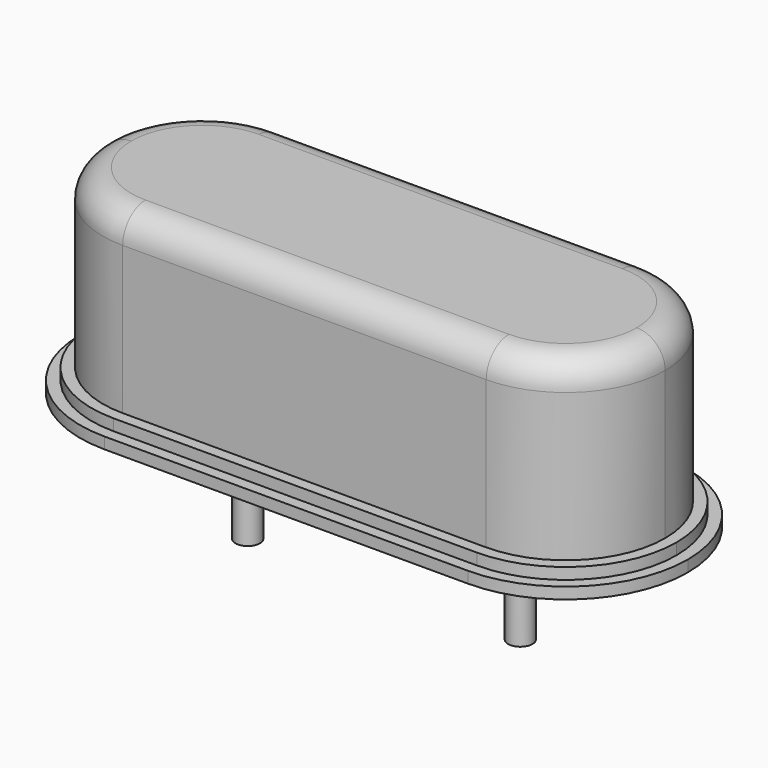
from build123d import *

# Parameters (mm, degrees)
F1_DEPTH  = 0.2
F3_DEPTH  = 0.2
F5_DEPTH  = 3.1
F8_R      = 0.5
F9_R      = 0.215
F10_DEPTH = 2


with BuildPart() as f1:
    # F0 (on Top) → F1 (new body)
    with BuildSketch(Plane.XY):
        with BuildLine():
            Line((0, 2.15), (0, 0))
            Line((0, 0), (5.35, 0))
            ThreePointArc((5.35, 0), (4.72028, 1.52028), (3.2, 2.15))
            Line((3.2, 2.15), (0, 2.15))
        make_face()
    extrude(amount=F1_DEPTH)

    # F2 (on face) → F3 (join)
    with BuildSketch(Plane.XY.offset(0.2)):
        with BuildLine():
            Line((0, 0), (5.15, 0))
            ThreePointArc((5.15, 0), (4.578858, 1.378858), (3.2, 1.95))
            Line((3.2, 1.95), (0, 1.95))
            Line((0, 1.95), (0, 0))
        make_face()
    extrude(amount=F3_DEPTH)

    # F4 (on face) → F5 (join)
    with BuildSketch(Plane.XY.offset(0.4)):
        with BuildLine():
            Line((0, 0), (4.95, 0))
            ThreePointArc((4.95, 0), (4.437437, 1.237437), (3.2, 1.75))
            Line((3.2, 1.75), (0, 1.75))
            Line((0, 1.75), (0, 0))
        make_face()
    extrude(amount=F5_DEPTH)

    # F6: F1 across face


with BuildPart() as f1_1:
    add(f1.part)
    add(f1.part.mirror(Plane(origin=(0, 0.895016, 1.719576), x_dir=(0, -1, 0), z_dir=(-1, 0, 0))))

    # F7: F1 across face


with BuildPart() as f1_2:
    add(f1_1.part)
    add(f1_1.part.mirror(Plane(origin=(0, 0, 1.739109), x_dir=(1, 0, 0), z_dir=(0, -1, 0))))

    # F8
    f8_edges = [f1_2.edges().sort_by_distance(p)[0] for p in [
        (0, 1.75, 3.5),
        (-4.95, 0, 3.5),
        (0, -1.75, 3.5),
        (4.95, 0, 3.5),
    ]]
    fillet(f8_edges, radius=F8_R)

    # F9 (on face) → F10 (join)
    with BuildSketch(Plane(origin=(0, 0, 0), x_dir=(1, 0, 0), z_dir=(0, 0, -1))):
        with Locations((2.4, 0)):
            Circle(F9_R)
        with Locations((-2.4, 0)):
            Circle(F9_R)
    extrude(amount=F10_DEPTH)


solid = f1_2.part
